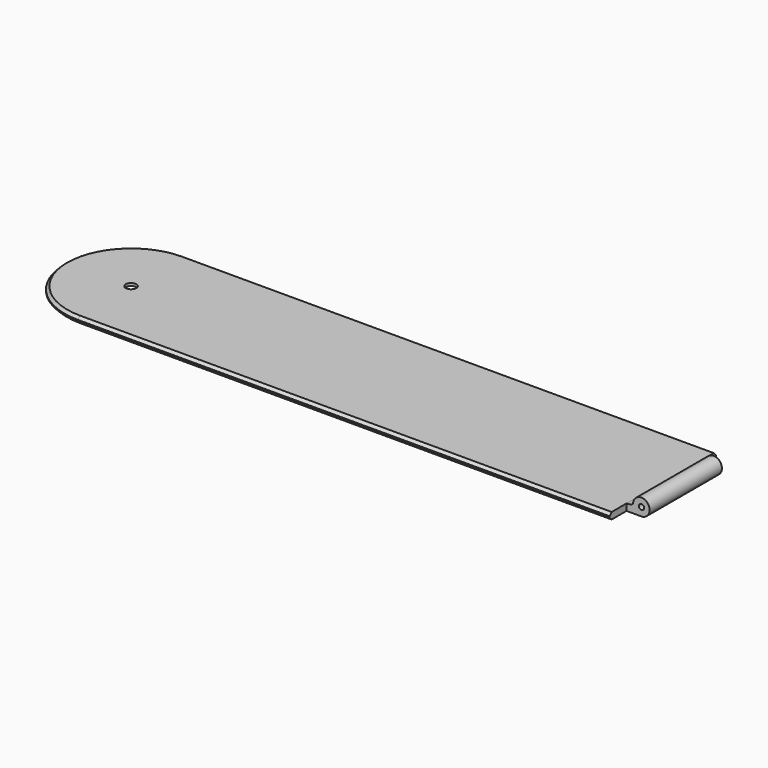
from build123d import *

# Parameters (mm, degrees)
PAD_DEPTH         = 1
PAD001_DEPTH      = 6.8
PAD001_DEPTH_BACK = 6.8
CYLINDER_R        = 0.4
CYLINDER_DEPTH    = 13.6
CYLINDER003_R     = 2.5
CYLINDER003_DEPTH = 0.6
CYLINDER004_R     = 0.8
CYLINDER004_DEPTH = 0.4
CHAMFER_SIZE      = 0.4


with BuildPart() as part:
    # Sketch → Pad (new body)
    with BuildSketch(Plane.XY):
        with BuildLine():
            Line((0, 10), (80, 10))
            Line((80, 10), (80, -10))
            Line((0, -10), (80, -10))
            ThreePointArc((0, 10), (-10, 0), (0, -10))
        make_face()
    extrude(amount=PAD_DEPTH)

    # Sketch003 (on Sketch) → Pad001 (join, two sides)
    with BuildSketch(Plane.XZ) as pad001_sk:
        with BuildLine():
            Line((80, 0), (82.25, 0))
            ThreePointArc((82.25, 0), (83.090481, 2.14888), (80.972274, 1.233843))
            ThreePointArc((80, 1), (80.503859, 1.043236), (80.972274, 1.233843))
            Line((80, 1), (80, 0))
        make_face()
    extrude(amount=PAD001_DEPTH)
    extrude(pad001_sk.sketch, amount=-PAD001_DEPTH_BACK)

    # Cylinder → Cylinder (cut)
    with BuildSketch(Plane(origin=(82.25, 6.8, 1.25), x_dir=(1, 0, 0), z_dir=(0, -1, 0))):
        Circle(CYLINDER_R)
    extrude(amount=CYLINDER_DEPTH, mode=Mode.SUBTRACT)

    # Cylinder003 → Cylinder003 (cut)
    with BuildSketch(Plane.XY):
        Circle(CYLINDER003_R)
    extrude(amount=CYLINDER003_DEPTH, mode=Mode.SUBTRACT)

    # Cylinder004 → Cylinder004 (cut)
    with BuildSketch(Plane.XY.offset(0.6)):
        Circle(CYLINDER004_R)
    extrude(amount=CYLINDER004_DEPTH, mode=Mode.SUBTRACT)

    # Chamfer
    chamfer_edges = [part.edges().sort_by_distance(p)[0] for p in [
        (40, -10, 1),
        (-10, 0, 1),
        (40, 10, 1),
        (40, 10, 0),
        (-10, 0, 0),
        (40, -10, 0),
    ]]
    chamfer(chamfer_edges, length=CHAMFER_SIZE)


solid = part.part
